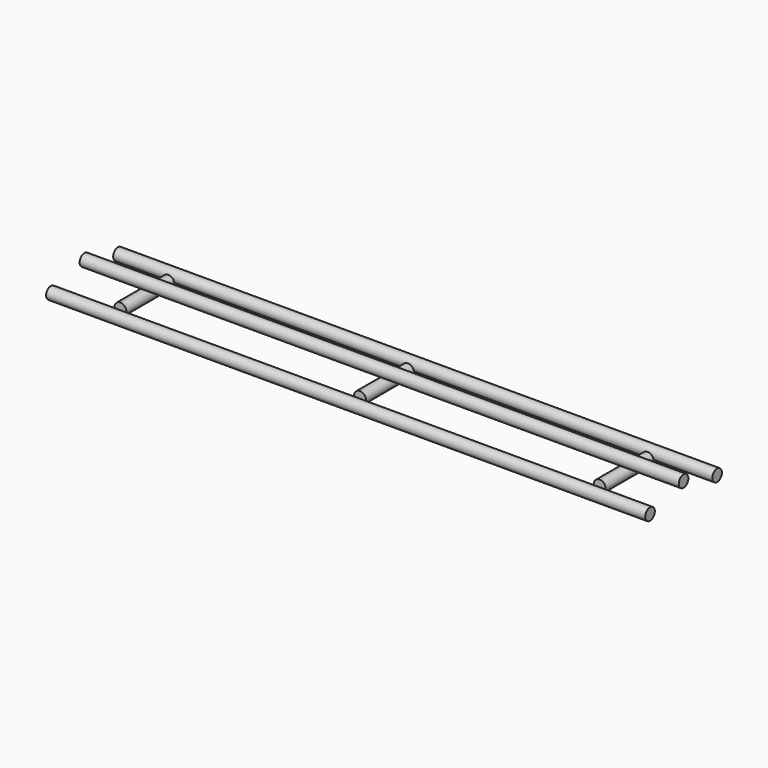
from build123d import *

# Parameters (mm, degrees)
CYLINDER_R              = 10
CYLINDER_DEPTH          = 1000
CYLINDER_PITCH_ANGLE    = 90
CYLINDER001_R           = 10
CYLINDER001_DEPTH       = 1000
CYLINDER001_PITCH_ANGLE = 90
CYLINDER002_R           = 10
CYLINDER002_DEPTH       = 100
CYLINDER002_ROLL_ANGLE  = -90
CYLINDER003_R           = 10
CYLINDER003_DEPTH       = 100
CYLINDER003_ROLL_ANGLE  = -90
CYLINDER004_R           = 10
CYLINDER004_DEPTH       = 100
CYLINDER004_ROLL_ANGLE  = -90
CYLINDER005_R           = 10
CYLINDER005_DEPTH       = 1000
CYLINDER005_PITCH_ANGLE = 90


with BuildPart() as cylinder:
    # Cylinder → Cylinder (new body)
    with BuildSketch(Plane.XY):
        Circle(CYLINDER_R)
    extrude(amount=CYLINDER_DEPTH)


with BuildPart() as cylinder_1:
    # Cylinder pitch: moved
    add(cylinder.part.rotate(Axis((0, 0, 0), (0, 1, 0)), CYLINDER_PITCH_ANGLE))


with BuildPart() as cylinder_2:
    # Cylinder placement: moved
    add(cylinder_1.part.moved(Location((-500, -70, 0))))


with BuildPart() as cylinder001:
    # Cylinder001 → Cylinder001 (new body)
    with BuildSketch(Plane.XY):
        Circle(CYLINDER001_R)
    extrude(amount=CYLINDER001_DEPTH)


with BuildPart() as cylinder001_1:
    # Cylinder001 pitch: moved
    add(cylinder001.part.rotate(Axis((0, 0, 0), (0, 1, 0)), CYLINDER001_PITCH_ANGLE))


with BuildPart() as cylinder001_2:
    # Cylinder001 placement: moved
    add(cylinder001_1.part.moved(Location((-500, 70, 0))))


with BuildPart() as cylinder002:
    # Cylinder002 → Cylinder002 (new body)
    with BuildSketch(Plane.XY):
        Circle(CYLINDER002_R)
    extrude(amount=CYLINDER002_DEPTH)


with BuildPart() as cylinder002_1:
    # Cylinder002 roll: moved
    add(cylinder002.part.rotate(Axis((0, 0, 0), (1, 0, 0)), CYLINDER002_ROLL_ANGLE))


with BuildPart() as cylinder002_2:
    # Cylinder002 placement: moved
    add(cylinder002_1.part.moved(Location((0, -50, 0))))


with BuildPart() as cylinder003:
    # Cylinder003 → Cylinder003 (new body)
    with BuildSketch(Plane.XY):
        Circle(CYLINDER003_R)
    extrude(amount=CYLINDER003_DEPTH)


with BuildPart() as cylinder003_1:
    # Cylinder003 roll: moved
    add(cylinder003.part.rotate(Axis((0, 0, 0), (1, 0, 0)), CYLINDER003_ROLL_ANGLE))


with BuildPart() as cylinder003_2:
    # Cylinder003 placement: moved
    add(cylinder003_1.part.moved(Location((-400, -50, 0))))


with BuildPart() as cylinder004:
    # Cylinder004 → Cylinder004 (new body)
    with BuildSketch(Plane.XY):
        Circle(CYLINDER004_R)
    extrude(amount=CYLINDER004_DEPTH)


with BuildPart() as cylinder004_1:
    # Cylinder004 roll: moved
    add(cylinder004.part.rotate(Axis((0, 0, 0), (1, 0, 0)), CYLINDER004_ROLL_ANGLE))


with BuildPart() as cylinder004_2:
    # Cylinder004 placement: moved
    add(cylinder004_1.part.moved(Location((400, -50, 0))))


with BuildPart() as cylinder005:
    # Cylinder005 → Cylinder005 (new body)
    with BuildSketch(Plane.XY):
        Circle(CYLINDER005_R)
    extrude(amount=CYLINDER005_DEPTH)


with BuildPart() as cylinder005_1:
    # Cylinder005 pitch: moved
    add(cylinder005.part.rotate(Axis((0, 0, 0), (0, 1, 0)), CYLINDER005_PITCH_ANGLE))


with BuildPart() as cylinder005_2:
    # Cylinder005 placement: moved
    add(cylinder005_1.part.moved(Location((-500, 0, 20))))


solid = Compound([cylinder_2.part, cylinder001_2.part, cylinder002_2.part, cylinder003_2.part, cylinder004_2.part, cylinder005_2.part])
